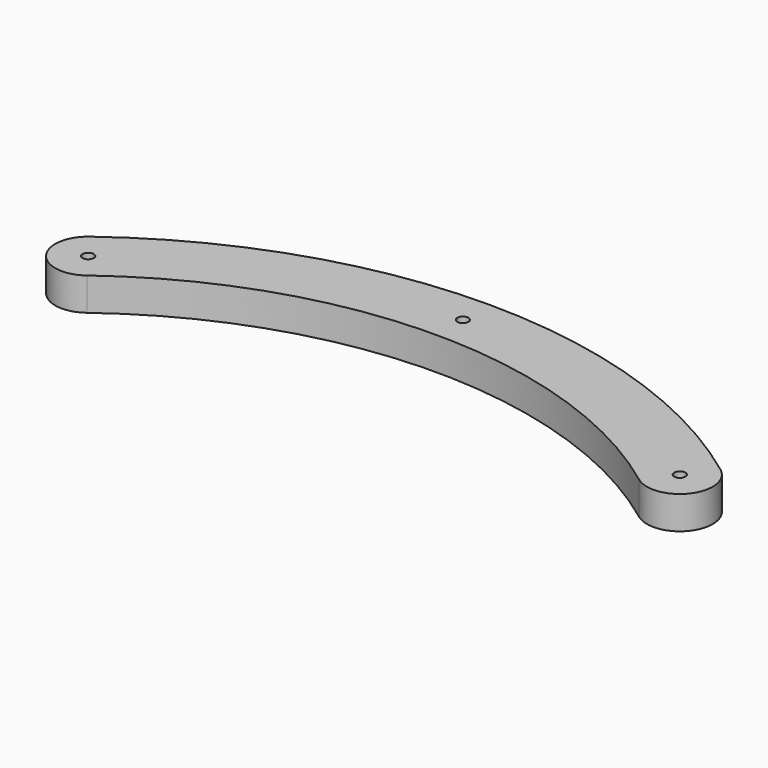
from build123d import *

# Parameters (mm, degrees)
F0_R     = 2.15265
F1_DEPTH = 12.7


with BuildPart() as f1:
    # F0 (on Top) → F1 (new body)
    with BuildSketch(Plane.XY):
        with BuildLine():
            ThreePointArc((248.92, 22.86), (127, 63.5), (5.08, 22.86))
            ThreePointArc((5.08, 22.86), (2.54, 5.08), (20.32, 2.54))
            ThreePointArc((20.32, 2.54), (127, 38.1), (233.68, 2.54))
            ThreePointArc((233.68, 2.54), (251.46, 5.08), (248.92, 22.86))
        make_face()
        with Locations((12.7, 12.7)):
            Circle(F0_R, mode=Mode.SUBTRACT)
        with Locations((241.3, 12.7)):
            Circle(F0_R, mode=Mode.SUBTRACT)
        with Locations((127, 50.8)):
            Circle(F0_R, mode=Mode.SUBTRACT)
    extrude(amount=F1_DEPTH)


solid = f1.part
